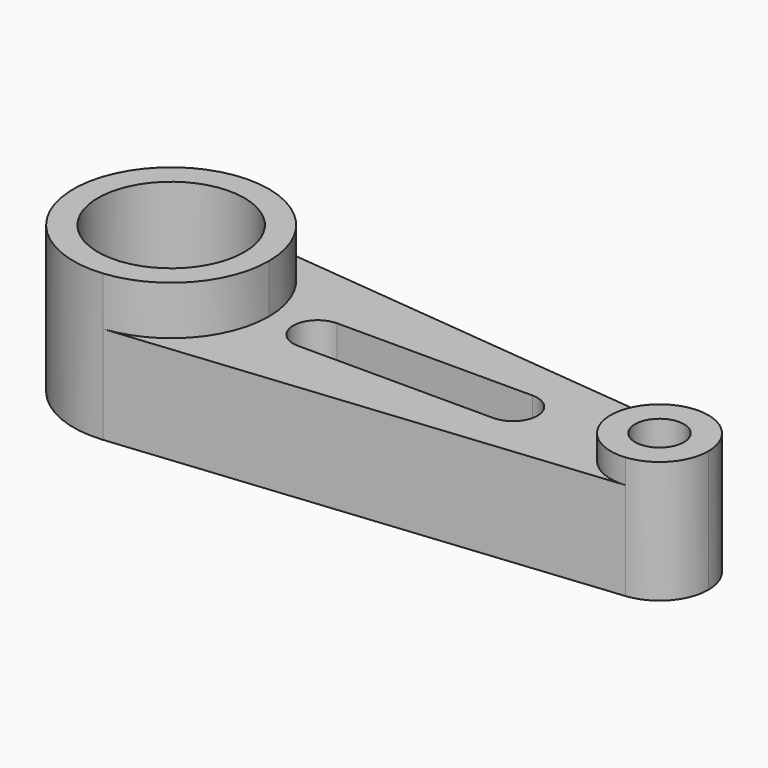
from build123d import *

# Parameters (mm, degrees)
F1_DEPTH = 25.4
F0_R     = 19.05
F2_DEPTH = 38.1
F0_R_2   = 6.35
F3_DEPTH = 31.75


with BuildPart() as f1:
    # F0 (on Top) → F1 (new body)
    with BuildSketch(Plane.XY):
        with BuildLine():
            ThreePointArc((90.17, -12.63634), (76.2, 0), (90.17, 12.63634))
            Line((90.17, 12.63634), (-35.56, 25.272681))
            ThreePointArc((-35.56, 25.272681), (-19.262856, 17.038838), (-12.7, 0))
            ThreePointArc((-12.7, 0), (-19.262856, -17.038838), (-35.56, -25.272681))
            Line((-35.56, -25.272681), (90.17, -12.63634))
        make_face()
        with BuildLine():
            ThreePointArc((0, -6.35), (-6.35, 0), (0, 6.35))
            Line((0, 6.35), (50.8, 6.35))
            ThreePointArc((50.8, 6.35), (57.15, 0), (50.8, -6.35))
            Line((50.8, -6.35), (0, -6.35))
        make_face(mode=Mode.SUBTRACT)
    extrude(amount=F1_DEPTH)

    # F0 (on Top) → F2 (join)
    with BuildSketch(Plane.XY):
        with BuildLine():
            ThreePointArc((-12.7, 0), (-19.262856, 17.038838), (-35.56, 25.272681))
            ThreePointArc((-35.56, 25.272681), (-63.5, 0), (-35.56, -25.272681))
            ThreePointArc((-35.56, -25.272681), (-19.262856, -17.038838), (-12.7, 0))
        make_face()
        with Locations((-38.1, 0)):
            Circle(F0_R, mode=Mode.SUBTRACT)
    extrude(amount=F2_DEPTH)

    # F0 (on Top) → F3 (join)
    with BuildSketch(Plane.XY):
        with BuildLine():
            ThreePointArc((90.17, -12.63634), (98.318572, -8.519419), (101.6, 0))
            ThreePointArc((101.6, 0), (98.318572, 8.519419), (90.17, 12.63634))
            ThreePointArc((90.17, 12.63634), (76.2, 0), (90.17, -12.63634))
        make_face()
        with Locations((88.9, 0)):
            Circle(F0_R_2, mode=Mode.SUBTRACT)
    extrude(amount=F3_DEPTH)


solid = f1.part
